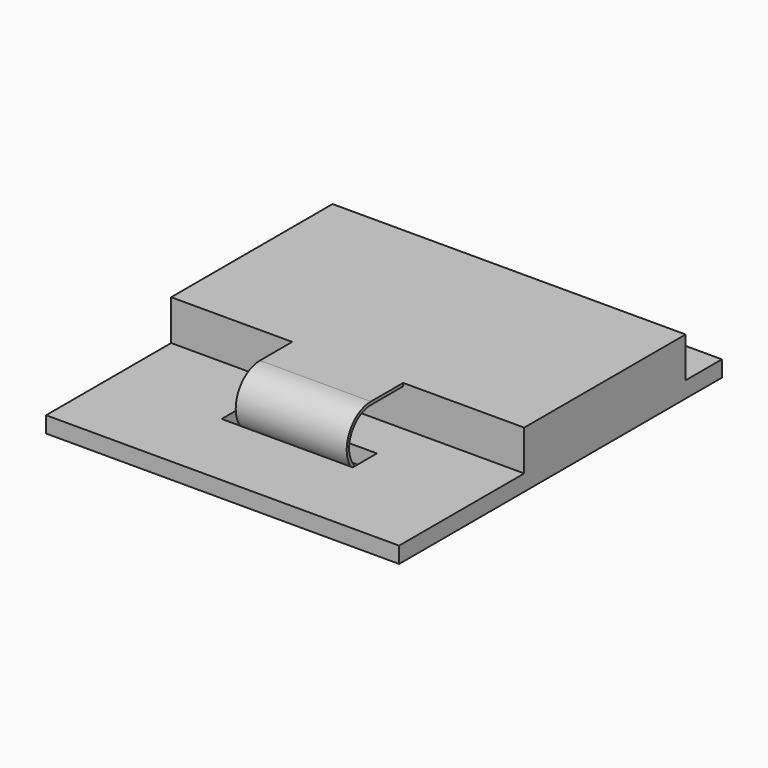
from build123d import *

# Parameters (mm, degrees)
F0_W     = 35
F0_H     = 40
F0_W_2   = 13
F0_H_2   = 3
F1_DEPTH = 1.6
F2_W     = 11
F2_H     = 1
F3_DEPTH = 4
F5_W     = 11
F5_H     = 0.3
F7_W     = 17
F7_H     = 3.9
F8_DEPTH = 3


with BuildPart() as f1:
    # F0 (on Top) → F1 (new body)
    with BuildSketch(Plane.XY):
        Rectangle(F0_W, F0_H)
        with Locations((0, -10.5)):
            Rectangle(F0_W_2, F0_H_2, mode=Mode.SUBTRACT)
    extrude(amount=F1_DEPTH)

    # F2 (on face) → F3 (join)
    with BuildSketch(Plane.XY.offset(1.6)):
        Polygon((17.5, 15.5), (-17.5, 15.5), (-17.5, -4.5), (-5.5, -4.5), (-5.5, -3.5), (5.5, -3.5), (5.5, -4.5), (17.5, -4.5), align=None)
        with Locations((0, -4)):
            Rectangle(F2_W, F2_H)
    extrude(amount=F3_DEPTH)

    # F6: sweep along a path in F4
    with BuildLine(Plane.YZ) as f6_path:
        Line((-4.5, 5.6), (-8.5, 5.6))
        ThreePointArc((-8.5, 5.6), (-11.5, 2.6), (-8.5, -0.4))
        Line((-8.5, -0.4), (6.975, -0.4))
    # F5 (on face) → F6 (sweep)
    with BuildSketch(Plane.XZ.offset(4.5)):
        with Locations((0, 5.45)):
            Rectangle(F5_W, F5_H)
    sweep(path=f6_path.line)

    # F7 (on face) → F8 (join)
    with BuildSketch(Plane(origin=(0, 0, 0), x_dir=(1, 0, 0), z_dir=(0, 0, -1))):
        with Locations((0, -5.025)):
            Rectangle(F7_W, F7_H)
    extrude(amount=F8_DEPTH)


solid = f1.part
